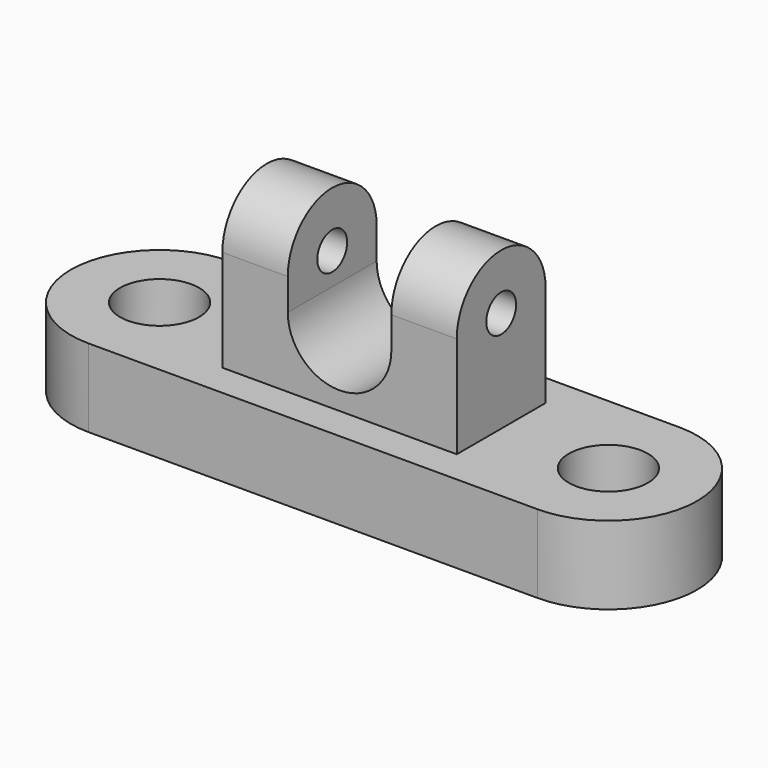
from build123d import *

# Parameters (mm, degrees)
F0_W     = 76.2
F0_H     = 36.11469
F1_DEPTH = 58.42
F0_R     = 12.858175
F2_DEPTH = 25.4
F3_R     = 6.059169
F4_DEPTH = 76.2
F5_DEPTH = 76.2
F7_DEPTH = 38.1


with BuildPart() as f1:
    # F0 (on Top) → F1 (new body)
    with BuildSketch(Plane.XY):
        Rectangle(F0_W, F0_H)
    extrude(amount=F1_DEPTH)

    # F0 (on Top) → F2 (join)
    with BuildSketch(Plane.XY):
        with BuildLine():
            Line((72.961012, 28.850658), (-72.961012, 28.850658))
            ThreePointArc((-72.961012, 28.850658), (-101.81167, 0), (-72.961012, -28.850658))
            Line((-72.961012, -28.850658), (72.961012, -28.850658))
            ThreePointArc((72.961012, -28.850658), (101.81167, 0), (72.961012, 28.850658))
        make_face()
        with Locations((-72.961012, 0)):
            Circle(F0_R, mode=Mode.SUBTRACT)
        Rectangle(F0_W, F0_H, mode=Mode.SUBTRACT)
        with Locations((72.961012, 0)):
            Circle(F0_R, mode=Mode.SUBTRACT)
    extrude(amount=F2_DEPTH)

    # F3 (on face) → F4 (join)
    with BuildSketch(Plane(origin=(-38.1, 0, 0), x_dir=(0, -1, 0), z_dir=(-1, 0, 0))):
        with Locations((0, 58.42)):
            Circle(F3_R)
        with BuildLine():
            Line((6.059169, 58.42), (18.057345, 58.42))
            ThreePointArc((18.057345, 58.42), (0, 76.477345), (-18.057345, 58.42))
            Line((-18.057345, 58.42), (-6.059169, 58.42))
            ThreePointArc((-6.059169, 58.42), (0, 64.479169), (6.059169, 58.42))
        make_face()
    extrude(amount=-F4_DEPTH)

    # F3 (on face) → F5 (cut)
    with BuildSketch(Plane(origin=(-38.1, 0, 0), x_dir=(0, -1, 0), z_dir=(-1, 0, 0))):
        with Locations((0, 58.42)):
            Circle(F3_R)
    extrude(amount=-F5_DEPTH, mode=Mode.SUBTRACT)

    # F6 (on Front) → F7 (cut, symmetric)
    with BuildSketch(Plane.XZ):
        with BuildLine():
            Line((16.832678, 103.529039), (-16.832678, 103.529039))
            Line((-16.832678, 103.529039), (-16.832678, 48.142973))
            ThreePointArc((-16.832678, 48.142973), (0, 31.310296), (16.832678, 48.142973))
            Line((16.832678, 48.142973), (16.832678, 103.529039))
        make_face()
    extrude(amount=F7_DEPTH, both=True, mode=Mode.SUBTRACT)


solid = f1.part
